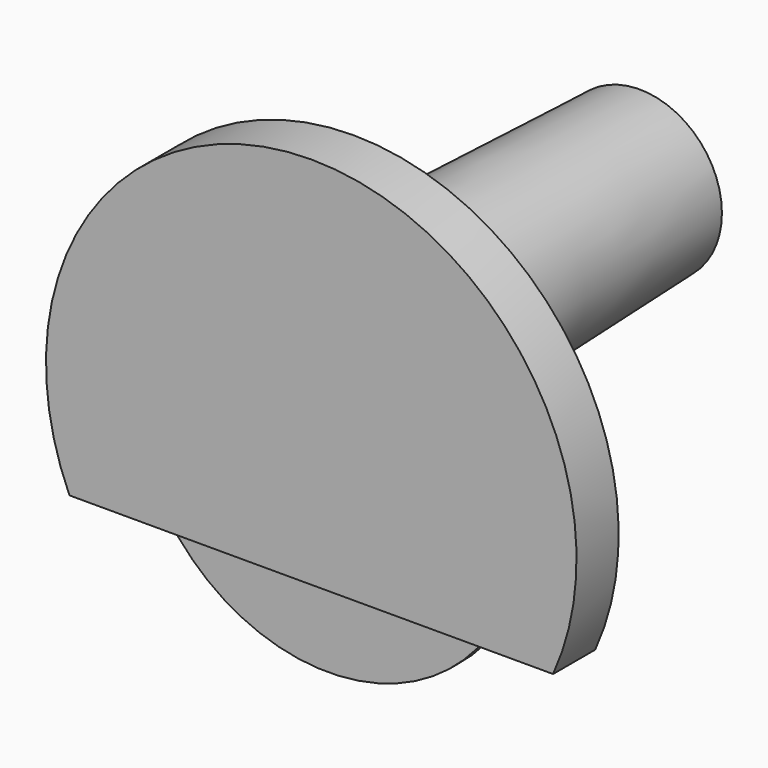
from build123d import *

# Parameters (mm, degrees)
F0_R     = 45
F1_DEPTH = 170
F1_TAPER = 2
F3_DEPTH = 25
F5_START = -10
F4_R     = 92.5
F5_DEPTH = 5


with BuildPart() as f1:
    # F0 (on Front) → F1 (new body)
    with BuildSketch(Plane.XZ):
        Circle(F0_R)
    extrude(amount=-F1_DEPTH, taper=F1_TAPER)

    # F2 (on face) → F3 (join)
    with BuildSketch(Plane.XZ):
        with BuildLine():
            Line((-114.8654392336, -88.8156135872), (114.8654392336, -88.8156135872))
            ThreePointArc((114.8654392336, -88.8156135872), (0, 89.0399508403), (-114.8654392336, -88.8156135872))
        make_face()
    extrude(amount=F3_DEPTH)

    # F4 (on face) → F5 (join)
    with BuildSketch(Plane.XZ.offset(25).offset(F5_START)):
        with Locations((0, -36.9799211621)):
            Circle(F4_R)
    extrude(amount=-F5_DEPTH)


solid = f1.part
